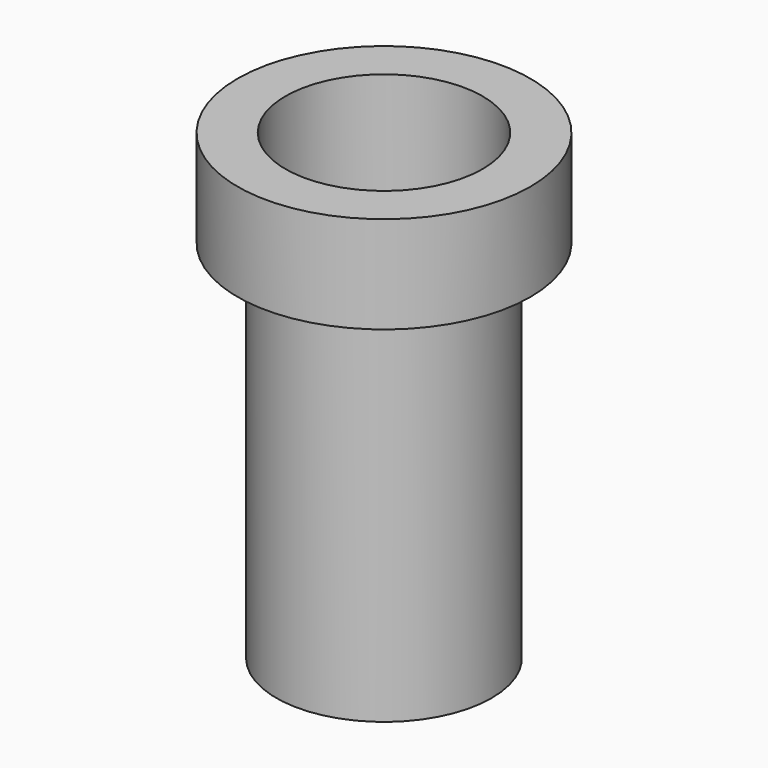
from build123d import *

# Parameters (mm, degrees)
SKETCH_R     = 0.965
PAD_DEPTH    = 0.64
SKETCH001_R  = 0.71
PAD001_DEPTH = 2.41
SKETCH002_R  = 0.65
POCKET_DEPTH = 3.051


with BuildPart() as part:
    # Sketch → Pad (new body)
    with BuildSketch(Plane.XY):
        Circle(SKETCH_R)
    extrude(amount=PAD_DEPTH)

    # Sketch001 (on Face2 of Pad) → Pad001 (join)
    with BuildSketch(Plane(origin=(0, 0, 0), x_dir=(1, 0, 0), z_dir=(0, 0, -1))):
        Circle(SKETCH001_R)
    extrude(amount=PAD001_DEPTH)

    # Sketch002 (on Face3 of Pad001) → Pocket (cut, through all)
    with BuildSketch(Plane.XY.offset(0.64)):
        Circle(SKETCH002_R)
    extrude(amount=-POCKET_DEPTH, mode=Mode.SUBTRACT)


solid = part.part
